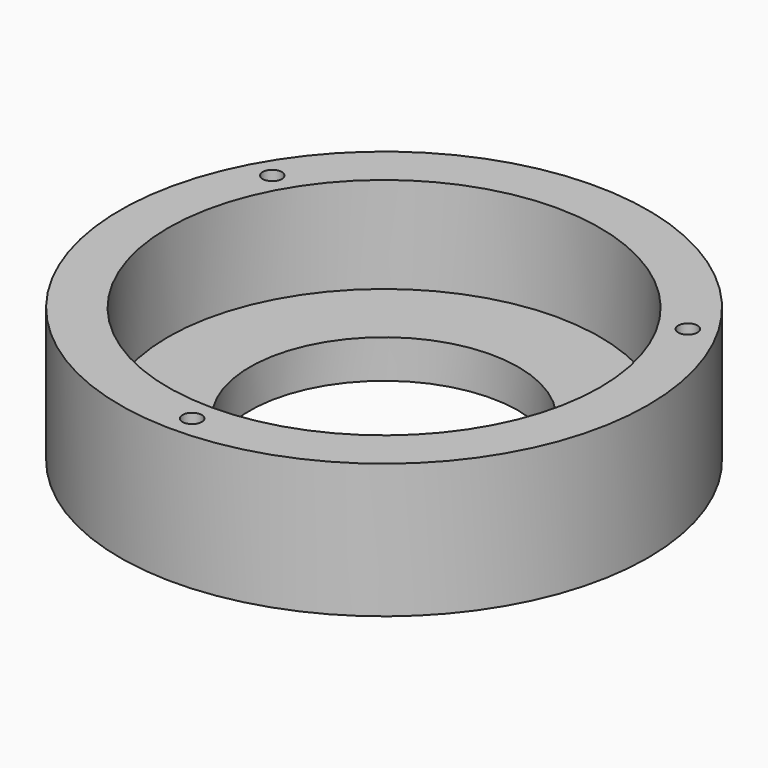
from build123d import *

# Parameters (mm, degrees)
SKETCH_R      = 27.5
SKETCH_R_2    = 14
PAD_DEPTH     = 4
SKETCH005_R   = 27.5
SKETCH005_R_2 = 22.5
PAD001_DEPTH  = 10
SKETCH006_R   = 1
POCKET_DEPTH  = 14.001


with BuildPart() as part:
    # Sketch → Pad (new body)
    with BuildSketch(Plane.XY):
        Circle(SKETCH_R)
        Circle(SKETCH_R_2, mode=Mode.SUBTRACT)
    extrude(amount=PAD_DEPTH)

    # Sketch005 (on Face4 of Pad) → Pad001 (join)
    with BuildSketch(Plane.XY.offset(4)):
        Circle(SKETCH005_R)
        Circle(SKETCH005_R_2, mode=Mode.SUBTRACT)
    extrude(amount=PAD001_DEPTH)

    # Sketch006 (on Face2 of Pad001) → Pocket (cut, through all)
    with BuildSketch(Plane(origin=(0, 0, 0), x_dir=(1, 0, 0), z_dir=(0, 0, -1))):
        with Locations((0, 25)):
            Circle(SKETCH006_R)
        with Locations((-21.650635, -12.5)):
            Circle(SKETCH006_R)
        with Locations((21.650635, -12.5)):
            Circle(SKETCH006_R)
    extrude(amount=-POCKET_DEPTH, mode=Mode.SUBTRACT)


solid = part.part
